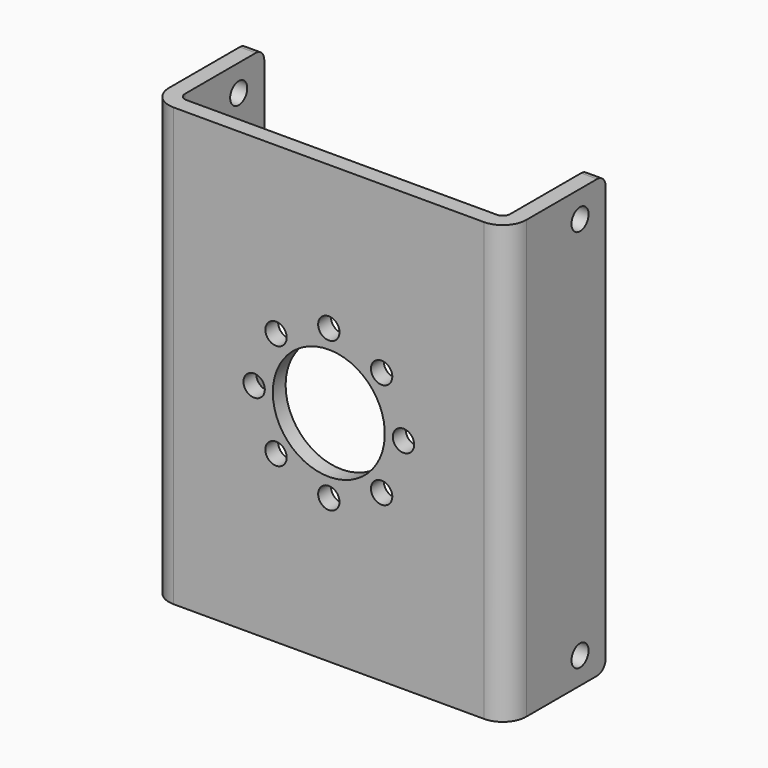
from build123d import *

# Parameters (mm, degrees)
F1_DEPTH = 41
F2_R     = 2.2
F3_R     = 0.7
F4_R     = 1
F5_DEPTH = 33.501
F6_R     = 1
F7_R     = 5.25
F7_R_2   = 1
F8_DEPTH = 1.5


with BuildPart() as f1:
    # F0 (on Top) → F1 (new body)
    with BuildSketch(Plane.XY):
        Polygon((-16.75, -5.75), (16.75, -5.75), (16.75, 5.75), (15.25, 5.75), (15.25, -4.25), (-15.25, -4.25), (-15.25, 5.75), (-16.75, 5.75), align=None)
    extrude(amount=F1_DEPTH)

    # F2
    f2_edges = [f1.edges().sort_by_distance(p)[0] for p in [
        (16.75, -5.75, 20.5),
        (-16.75, -5.75, 20.5),
    ]]
    fillet(f2_edges, radius=F2_R)

    # F3
    f3_edges = [f1.edges().sort_by_distance(p)[0] for p in [
        (-15.25, -4.25, 20.5),
        (15.25, -4.25, 20.5),
    ]]
    fillet(f3_edges, radius=F3_R)

    # F4 (on face) → F5 (cut, through all)
    with BuildSketch(Plane.YZ.offset(16.75)):
        with Locations((2.75, 38.5)):
            Circle(F4_R)
        with Locations((2.75, 2.5)):
            Circle(F4_R)
    extrude(amount=-F5_DEPTH, mode=Mode.SUBTRACT)

    # F6
    f6_edges = [f1.edges().sort_by_distance(p)[0] for p in [
        (-16, 5.75, 41),
        (16, 5.75, 41),
        (-16, 5.75, 0),
        (16, 5.75, 0),
    ]]
    fillet(f6_edges, radius=F6_R)

    # F7 (on face) → F8 (cut, through all)
    with BuildSketch(Plane(origin=(0, -4.25, 0), x_dir=(-1, 0, 0), z_dir=(0, 1, 0))):
        with Locations((0, 20.5)):
            Circle(F7_R)
        with Locations((0, 27.5)):
            Circle(F7_R_2)
        with Locations((-4.949747, 25.449747)):
            Circle(F7_R_2)
        with Locations((-7, 20.5)):
            Circle(F7_R_2)
        with Locations((-4.949747, 15.550253)):
            Circle(F7_R_2)
        with Locations((0, 13.5)):
            Circle(F7_R_2)
        with Locations((4.949747, 15.550253)):
            Circle(F7_R_2)
        with Locations((7, 20.5)):
            Circle(F7_R_2)
        with Locations((4.949747, 25.449747)):
            Circle(F7_R_2)
    extrude(amount=-F8_DEPTH, mode=Mode.SUBTRACT)


solid = f1.part
